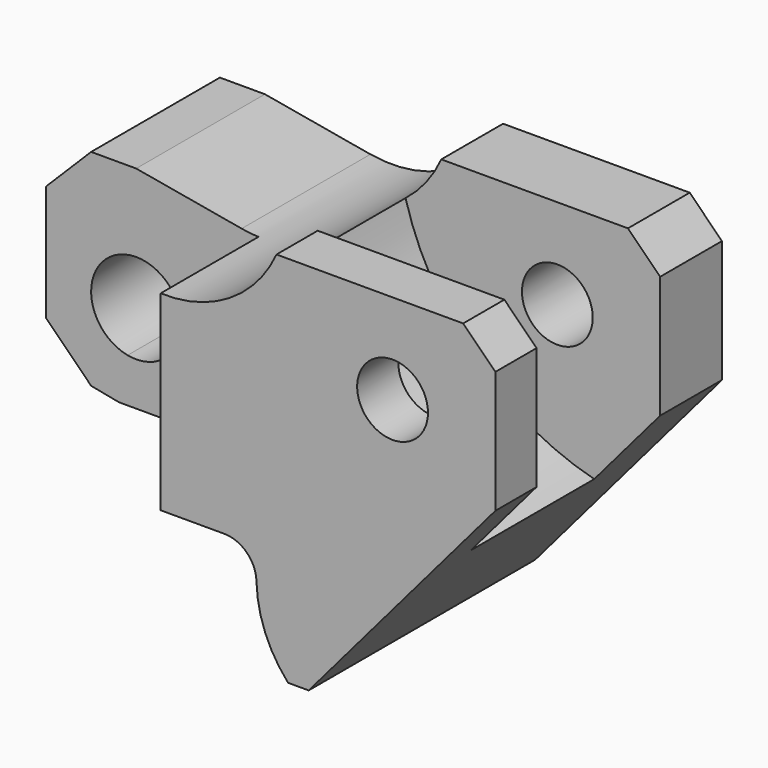
from build123d import *

# Parameters (mm, degrees)
F1_DEPTH      = 44
F2_R          = 5.5
F3_DEPTH      = 44.001
F4_W          = 33
F4_H          = 19
F5_DEPTH      = 24.001
F5_DEPTH_BACK = 25
F8_DEPTH      = 24


with BuildPart() as f1:
    # F0 (on Front) → F1 (new body)
    with BuildSketch(Plane.XZ):
        with BuildLine():
            Line((-29, -34), (0, 0))
            Line((0, 0), (0, 19))
            Line((0, 19), (-5, 24))
            Line((-5, 24), (-34, 24))
            ThreePointArc((-34, 24), (-42.4407650408, 15.0219737764), (-54.6144594201, 13.1107871023))
            Line((-54.6144594201, 13.1107871023), (-71, 16))
            Line((-71, 16), (-78, 16))
            Line((-78, 16), (-85, 9))
            Line((-85, 9), (-85, 0))
            Line((-85, 0), (-85, -9))
            Line((-85, -9), (-78, -16))
            Line((-78, -16), (-73.6665455603, -16.8407740419))
            Line((-73.6665455603, -16.8407740419), (-42.1131182037, -16.8407740419))
            ThreePointArc((-42.1131182037, -16.8407740419), (-38.6217617691, -18.2616079035), (-37.1146603126, -21.7166019433))
            ThreePointArc((-37.1146603126, -21.7166019433), (-35.7621956578, -28.2996251104), (-32.2025494985, -34))
            Line((-32.2025494985, -34), (-29, -34))
        make_face()
        with BuildLine():
            ThreePointArc((-64, -3.0970651257), (-66.5465131336, -8.4976627528), (-72.3332727801, -9.9689195838))
            ThreePointArc((-72.3332727801, -9.9689195838), (-75.4534868664, 2.3035325015), (-64, -3.0970651257))
        make_face(mode=Mode.SUBTRACT)
    extrude(amount=F1_DEPTH)

    # F2 (on face) → F3 (cut, through all)
    with BuildSketch(Plane.XZ.offset(44)):
        with Locations((-15.9680212459, 10)):
            Circle(F2_R)
    extrude(amount=-F3_DEPTH, mode=Mode.SUBTRACT)

    # F4 (on Top) → F5 (cut, two sides)
    with BuildSketch(Plane.XY) as f5_sk:
        with Locations((-68.5, -34.5)):
            Rectangle(F4_W, F4_H)
    extrude(amount=F5_DEPTH, mode=Mode.SUBTRACT)
    extrude(f5_sk.sketch, amount=-F5_DEPTH_BACK, mode=Mode.SUBTRACT)

    # F7 (on offset) → F8 (cut)
    with BuildSketch(Plane(origin=(0, -12, 0), x_dir=(-1, 0, 0), z_dir=(0, 1, 0))):
        with BuildLine():
            Line((0, 0), (10.2352941176, -12))
            ThreePointArc((10.2352941176, -12), (28.7839327574, -1.495476016), (39.5518853442, 16.901486141))
            ThreePointArc((39.5518853442, 16.901486141), (36.348995532, 20.1168194328), (34, 24))
            Line((34, 24), (5, 24))
            Line((5, 24), (0, 19))
            Line((0, 19), (0, 0))
        make_face()
    extrude(amount=-F8_DEPTH, mode=Mode.SUBTRACT)


solid = f1.part
